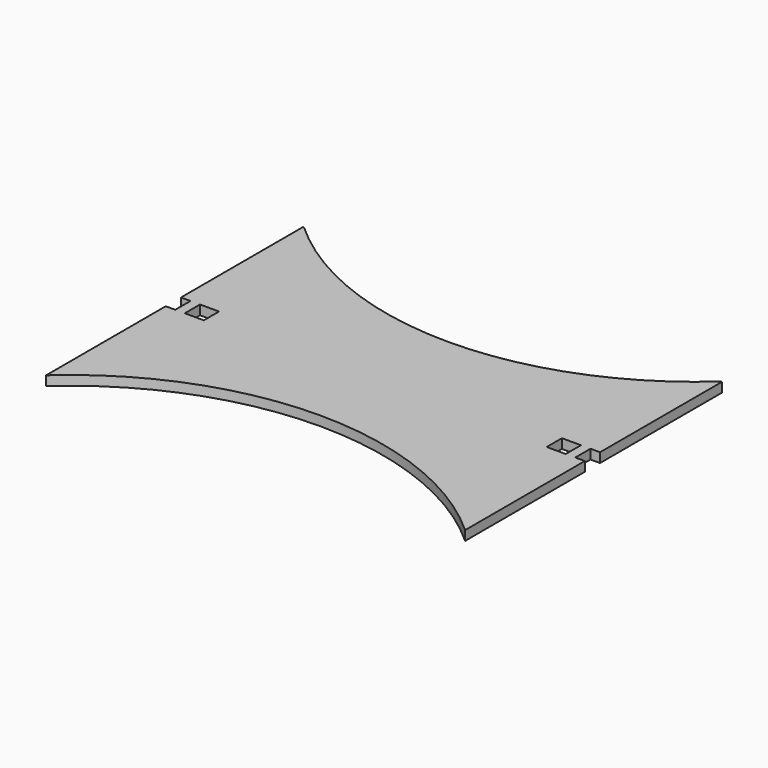
from build123d import *

# Parameters (mm, degrees)
F0_W     = 10
F0_H     = 10
F1_DEPTH = 5


with BuildPart() as f1:
    # F0 (on Top) → F1 (new body)
    with BuildSketch(Plane.XY):
        with BuildLine():
            Line((-217.772444, 298.14717), (-218.393043, 298.14717))
            Line((-218.393043, 298.14717), (-218.393043, 218.14717))
            Line((-218.393043, 218.14717), (-213.393043, 218.14717))
            Line((-213.393043, 218.14717), (-213.393043, 208.14717))
            Line((-213.393043, 208.14717), (-218.393043, 208.14717))
            Line((-218.393043, 208.14717), (-218.393043, 129.632429))
            ThreePointArc((-218.393043, 129.632429), (-108.393043, 172.033314), (1.606957, 129.632429))
            Line((1.606957, 129.632429), (1.606957, 208.14717))
            Line((1.606957, 208.14717), (-3.393043, 208.14717))
            Line((-3.393043, 208.14717), (-3.393043, 218.14717))
            Line((-3.393043, 218.14717), (1.606957, 218.14717))
            Line((1.606957, 218.14717), (1.606957, 298.14717))
            Line((1.606957, 298.14717), (0.986359, 298.14717))
            ThreePointArc((0.986359, 298.14717), (-108.393043, 255.777673), (-217.772444, 298.14717))
        make_face()
        with Locations((-203.393043, 213.14717)):
            Rectangle(F0_W, F0_H, mode=Mode.SUBTRACT)
        with Locations((-13.393043, 213.14717)):
            Rectangle(F0_W, F0_H, mode=Mode.SUBTRACT)
        with BuildLine():
            Line((-217.772444, 298.14717), (-218.393043, 298.14717))
            Line((-218.393043, 298.14717), (-218.393043, 218.14717))
            Line((-218.393043, 218.14717), (-213.393043, 218.14717))
            Line((-213.393043, 218.14717), (-213.393043, 208.14717))
            Line((-213.393043, 208.14717), (-218.393043, 208.14717))
            Line((-218.393043, 208.14717), (-218.393043, 129.632429))
            ThreePointArc((-218.393043, 129.632429), (-108.393043, 172.033314), (1.606957, 129.632429))
            Line((1.606957, 129.632429), (1.606957, 208.14717))
            Line((1.606957, 208.14717), (-3.393043, 208.14717))
            Line((-3.393043, 208.14717), (-3.393043, 218.14717))
            Line((-3.393043, 218.14717), (1.606957, 218.14717))
            Line((1.606957, 218.14717), (1.606957, 298.14717))
            Line((1.606957, 298.14717), (0.986359, 298.14717))
            ThreePointArc((0.986359, 298.14717), (-108.393043, 255.777673), (-217.772444, 298.14717))
        make_face()
        with Locations((-203.393043, 213.14717)):
            Rectangle(F0_W, F0_H, mode=Mode.SUBTRACT)
        with Locations((-13.393043, 213.14717)):
            Rectangle(F0_W, F0_H, mode=Mode.SUBTRACT)
    extrude(amount=F1_DEPTH)


solid = f1.part
